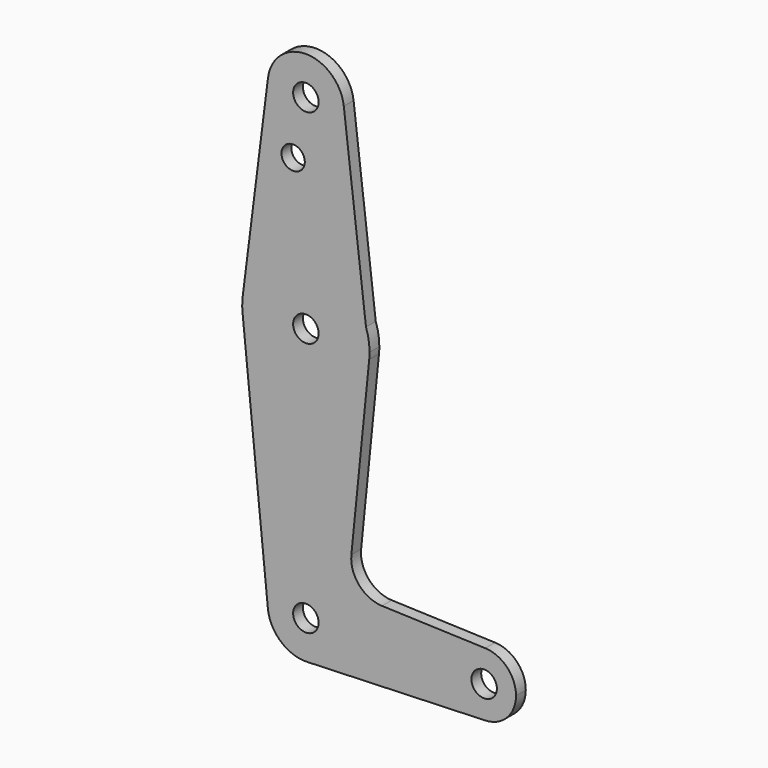
from build123d import *

# Parameters (mm, degrees)
F0_R     = 3.175
F0_R_2   = 2.906978
F1_DEPTH = 3.048


with BuildPart() as f1:
    # F0 (on Front) → F1 (new body)
    with BuildSketch(Plane.XZ):
        with BuildLine():
            ThreePointArc((-79.142269, 72.226203), (-70.288459, 61.529273), (-60.166976, 71.035578))
            ThreePointArc((-60.166976, 71.035578), (-60.183514, 71.596627), (-60.23307, 72.155727))
            ThreePointArc((-60.23307, 72.155727), (-69.656476, 80.560512), (-79.142269, 72.226203))
        make_face()
        with Locations((-69.691976, 71.035578)):
            Circle(F0_R, mode=Mode.SUBTRACT)
        with BuildLine():
            ThreePointArc((-60.23307, 72.155727), (-60.183514, 71.596627), (-60.166976, 71.035578))
            ThreePointArc((-60.166976, 71.035578), (-70.288459, 61.529273), (-79.142269, 72.226203))
            Line((-79.142269, 72.226203), (-85.442464, 22.219953))
            ThreePointArc((-85.442464, 22.219953), (-71.360424, 36.022659), (-54.704243, 25.468503))
            Line((-54.704243, 25.468503), (-60.23307, 72.155727))
        make_face()
        with Locations((-72.866976, 56.760778)):
            Circle(F0_R_2, mode=Mode.SUBTRACT)
        with BuildLine():
            Line((-53.89655, 18.648078), (-54.704243, 25.468503))
            ThreePointArc((-54.704243, 25.468503), (-71.360424, 36.022659), (-85.442464, 22.219953))
            ThreePointArc((-85.442464, 22.219953), (-85.56572, 20.435284), (-85.487401, 18.648078))
            ThreePointArc((-85.487401, 18.648078), (-69.691976, 4.360578), (-53.89655, 18.648078))
        make_face()
        with Locations((-69.691976, 20.235578)):
            Circle(F0_R, mode=Mode.SUBTRACT)
        with BuildLine():
            ThreePointArc((-53.816976, 20.235578), (-54.040364, 22.889384), (-54.704243, 25.468503))
            Line((-54.704243, 25.468503), (-53.89655, 18.648078))
            ThreePointArc((-53.89655, 18.648078), (-53.836882, 19.440832), (-53.816976, 20.235578))
        make_face()
        with BuildLine():
            Line((-58.35114, -25.67453), (-53.89655, 18.648078))
            ThreePointArc((-53.89655, 18.648078), (-69.691976, 4.360578), (-85.487401, 18.648078))
            Line((-85.487401, 18.648078), (-79.169231, -44.216922))
            ThreePointArc((-79.169231, -44.216922), (-70.168824, -33.751365), (-60.166976, -43.264422))
            ThreePointArc((-60.166976, -43.264422), (-62.837568, -49.878249), (-69.351797, -52.783345))
            Line((-69.351797, -52.783345), (-24.958494, -51.196858))
            ThreePointArc((-24.958494, -51.196858), (-33.179476, -43.264961), (-24.959571, -35.331947))
            Line((-24.959571, -35.331947), (-50.723648, -34.414716))
            ThreePointArc((-50.723648, -34.414716), (-56.430772, -31.696959), (-58.35114, -25.67453))
        make_face()
        with BuildLine():
            ThreePointArc((-60.166976, -43.264422), (-70.168824, -33.751365), (-79.169231, -44.216922))
            ThreePointArc((-79.169231, -44.216922), (-75.954359, -50.441342), (-69.351797, -52.783345))
            ThreePointArc((-69.351797, -52.783345), (-62.837568, -49.878249), (-60.166976, -43.264422))
        make_face()
        with Locations((-69.691976, -43.264422)):
            Circle(F0_R, mode=Mode.SUBTRACT)
        with BuildLine():
            ThreePointArc((-17.304476, -43.264422), (-19.530343, -37.752511), (-24.959571, -35.331947))
            ThreePointArc((-24.959571, -35.331947), (-33.179476, -43.264961), (-24.958494, -51.196858))
            ThreePointArc((-24.958494, -51.196858), (-19.529969, -48.775945), (-17.304476, -43.264422))
        make_face()
        with Locations((-25.241976, -43.264422)):
            Circle(F0_R, mode=Mode.SUBTRACT)
    extrude(amount=F1_DEPTH)


solid = f1.part
